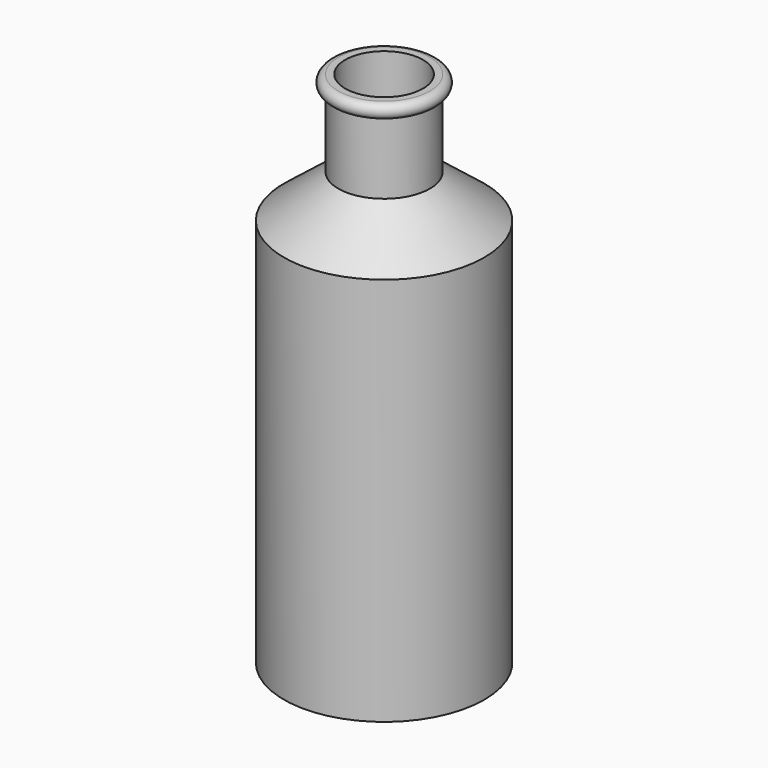
from build123d import *


with BuildPart() as f1:
    # F0 (on Front) → F1 (revolve)
    with BuildSketch(Plane.XZ):
        with BuildLine():
            Line((35.56, 0), (44.45, 0))
            Line((44.45, 0), (44.45, 172.72))
            Line((44.45, 172.72), (20.32, 191.77))
            Line((20.32, 191.77), (20.32, 223.52))
            ThreePointArc((20.32, 223.52), (23.495, 226.695), (20.32, 229.87))
            Line((20.32, 229.87), (17.272, 229.87))
            Line((17.272, 229.87), (17.272, 226.822))
            Line((17.272, 226.822), (17.272, 190.292933))
            Line((17.272, 190.292933), (41.402, 171.242933))
            Line((41.402, 171.242933), (41.402, 5.588))
            Line((41.402, 5.588), (0, 5.588))
            Line((0, 5.588), (0, 2.54))
            Line((0, 2.54), (35.56, 2.54))
            Line((35.56, 2.54), (35.56, 0))
        make_face()
    revolve(axis=Axis((0, 0, 114.935), (0, 0, -1)))


solid = f1.part
